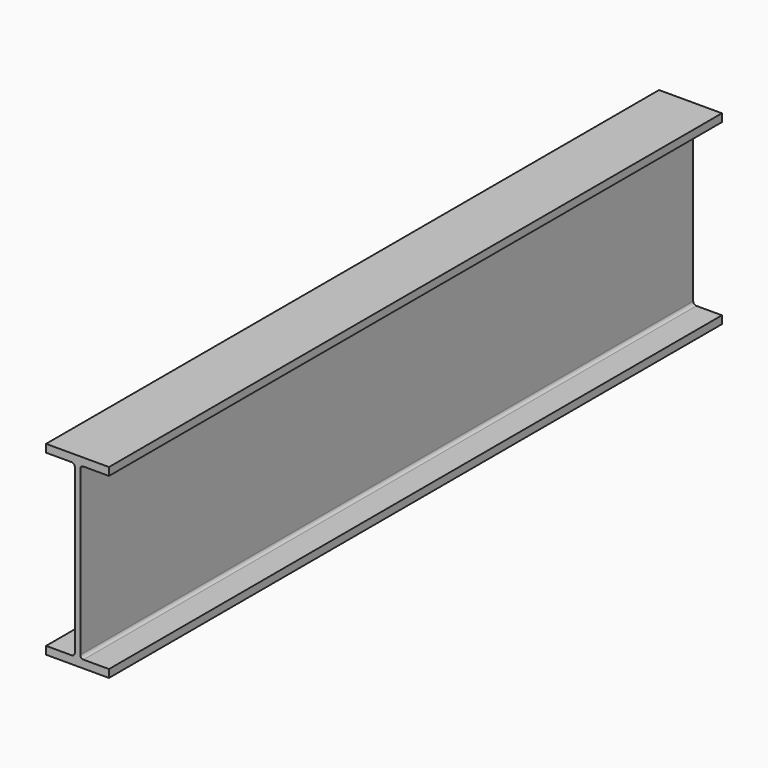
from build123d import *

# Parameters (mm, degrees)
F1_DEPTH = 1905


with BuildPart() as f1:
    # F0 (on Front) → F1 (new body)
    with BuildSketch(Plane.XZ):
        with BuildLine():
            Line((393.196486, 211.351217), (393.196486, 230.848783))
            Line((393.196486, 230.848783), (236.79892, 230.848783))
            Line((236.79892, 230.848783), (236.79892, 211.351217))
            Line((236.79892, 211.351217), (300.247703, 211.351217))
            ThreePointArc((300.247703, 211.351217), (305.870062, 209.022359), (308.19892, 203.4))
            Line((308.19892, 203.4), (308.19892, -203.4))
            ThreePointArc((308.19892, -203.4), (305.870062, -209.022359), (300.247703, -211.351217))
            Line((300.247703, -211.351217), (236.79892, -211.351217))
            Line((236.79892, -211.351217), (236.79892, -230.848783))
            Line((236.79892, -230.848783), (393.196486, -230.848783))
            Line((393.196486, -230.848783), (393.196486, -211.351217))
            Line((393.196486, -211.351217), (329.747703, -211.351217))
            ThreePointArc((329.747703, -211.351217), (324.125343, -209.022359), (321.796486, -203.4))
            Line((321.796486, -203.4), (321.796486, 203.4))
            ThreePointArc((321.796486, 203.4), (324.125343, 209.022359), (329.747703, 211.351217))
            Line((329.747703, 211.351217), (393.196486, 211.351217))
        make_face()
    extrude(amount=-F1_DEPTH)


solid = f1.part
